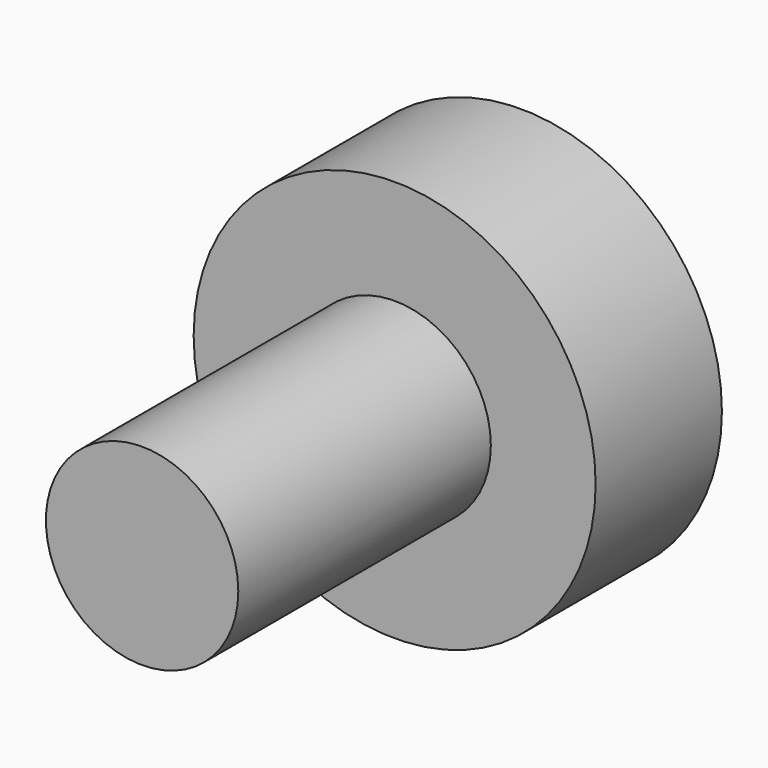
from build123d import *

# Parameters (mm, degrees)
F0_R     = 32.34451
F1_DEPTH = 25.4
F2_R     = 15.47955
F3_DEPTH = 76.2
F4_R     = 8.094694
F5_DEPTH = 25.4


with BuildPart() as f1:
    # F0 (on Front) → F1 (new body)
    with BuildSketch(Plane.XZ):
        Circle(F0_R)
    extrude(amount=F1_DEPTH)

    # F2 (on Front) → F3 (join)
    with BuildSketch(Plane.XZ):
        Circle(F2_R)
    extrude(amount=F3_DEPTH)

    # F4 (on Front) → F5 (cut)
    with BuildSketch(Plane.XZ):
        Circle(F4_R)
    extrude(amount=-F5_DEPTH, mode=Mode.SUBTRACT)


solid = f1.part
